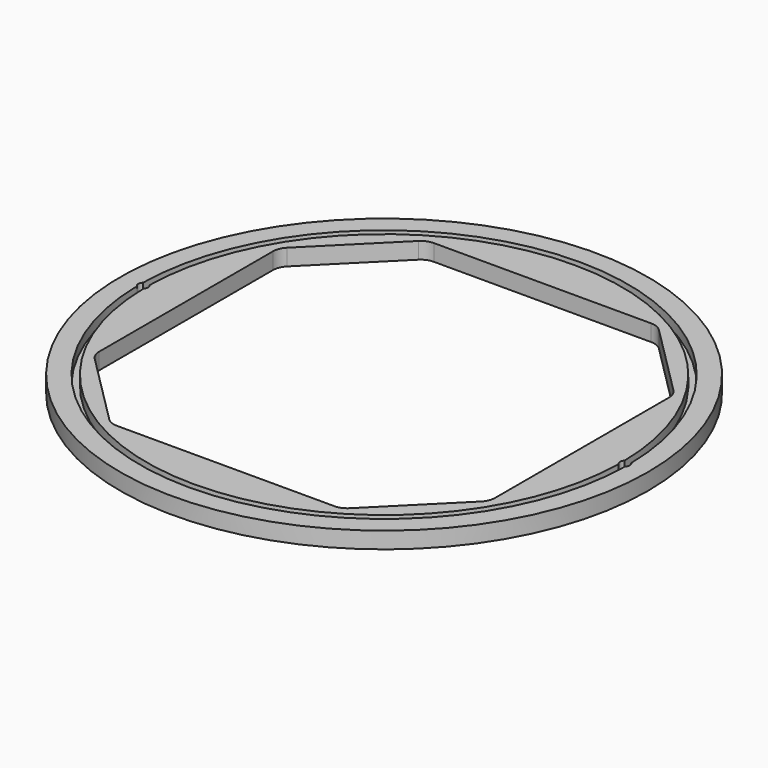
from build123d import *

# Parameters (mm, degrees)
F0_R     = 80
F1_DEPTH = 5
F2_R     = 74
F2_R_2   = 72
F3_DEPTH = 3
F4_D     = 3
F5_R     = 5


with BuildPart() as f1:
    # F0 (on Top) → F1 (new body)
    with BuildSketch(Plane.XY):
        with Locations((0, -60)):
            Circle(F0_R)
        Polygon((35, 0), (60, -25), (60, -95), (35, -120), (-35, -120), (-60, -95), (-60, -25), (-35, 0), align=None, mode=Mode.SUBTRACT)
    extrude(amount=F1_DEPTH)

    # F2 (on face) → F3 (cut)
    with BuildSketch(Plane.XY.offset(5)):
        with Locations((0, -60)):
            Circle(F2_R)
        with Locations((0, -60)):
            Circle(F2_R_2, mode=Mode.SUBTRACT)
    extrude(amount=-F3_DEPTH, mode=Mode.SUBTRACT)

    # F4 (through all)
    with Locations(Plane.XY.offset(5)):
        with Locations((-73, -60), (73, -60)):
            Hole(F4_D / 2)

    # F5
    f5_edges = [f1.edges().sort_by_distance(p)[0] for p in [
        (-35, 0, 2.5),
        (35, 0, 2.5),
        (-60, -25, 2.5),
        (60, -25, 2.5),
        (60, -95, 2.5),
        (35, -120, 2.5),
        (-35, -120, 2.5),
        (-60, -95, 2.5),
    ]]
    fillet(f5_edges, radius=F5_R)


solid = f1.part
